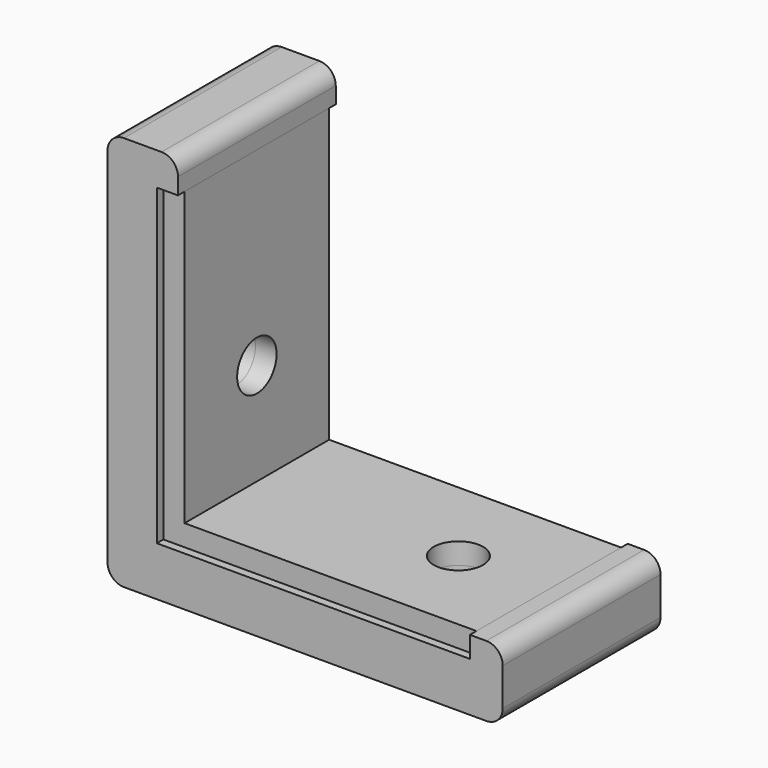
from build123d import *

# Parameters (mm, degrees)
F2_DEPTH = 5.5
F3_W     = 1.29032
F3_H     = 2
F3_W_2   = 2
F3_H_2   = 1.29032
F4_DEPTH = 6
F5_R     = 1.5
F6_DEPTH = 12.5
F7_R     = 1.5
F8_DEPTH = 12.5
F9_R     = 1


with BuildPart() as f2:
    # F1 (on Front) → F2 (new body, symmetric)
    with BuildSketch(Plane.XZ):
        Polygon((-7.5, 0), (-7.5, 1.29032), (-25.25968, 1.29032), (-25.25968, 19.05), (-26.55, 19.05), (-26.55, 0), align=None)
    extrude(amount=F2_DEPTH, both=True)


with BuildPart() as f4:
    # F3 (on Front) → F4 (new body, symmetric)
    with BuildSketch(Plane.XZ):
        Polygon((-26.55, 0), (-26.55, 19.05), (-26.55, 21.05), (-29.55, 21.05), (-29.55, -3), (-5.5, -3), (-5.5, 0), (-7.5, 0), align=None)
        with Locations((-25.90484, 20.05)):
            Rectangle(F3_W, F3_H)
        with Locations((-6.5, 0.64516)):
            Rectangle(F3_W_2, F3_H_2)
    extrude(amount=F4_DEPTH, both=True)


with BuildPart() as f6_tool:
    # F5 (on face) → F6 (new body, symmetric)
    with BuildSketch(Plane.XY.offset(1.29032)):
        with Locations((-13, 0)):
            Circle(F5_R)
    extrude(amount=F6_DEPTH, both=True)


with BuildPart() as f2_1:
    add(f2.part)

    # F6: cut by f6_tool
    add(f6_tool.part, mode=Mode.SUBTRACT)


with BuildPart() as f4_1:
    add(f4.part)

    # F6: cut by f6_tool
    add(f6_tool.part, mode=Mode.SUBTRACT)


with BuildPart() as f8_tool:
    # F7 (on face) → F8 (new body, symmetric)
    with BuildSketch(Plane.YZ.offset(-25.25968)):
        with Locations((0, 7.5)):
            Circle(F7_R)
    extrude(amount=F8_DEPTH, both=True)


with BuildPart() as f2_2:
    add(f2_1.part)

    # F8: cut by f8_tool
    add(f8_tool.part, mode=Mode.SUBTRACT)


with BuildPart() as f4_2:
    add(f4_1.part)

    # F8: cut by f8_tool
    add(f8_tool.part, mode=Mode.SUBTRACT)

    # F9
    f9_edges = [f4_2.edges().sort_by_distance(p)[0] for p in [
        (-25.25968, 0, 21.05),
        (-5.5, 0, 1.29032),
        (-29.55, 0, 21.05),
        (-5.5, 0, -3),
        (-29.55, 0, -3),
    ]]
    fillet(f9_edges, radius=F9_R)


solid = Compound([f2_2.part, f4_2.part])
